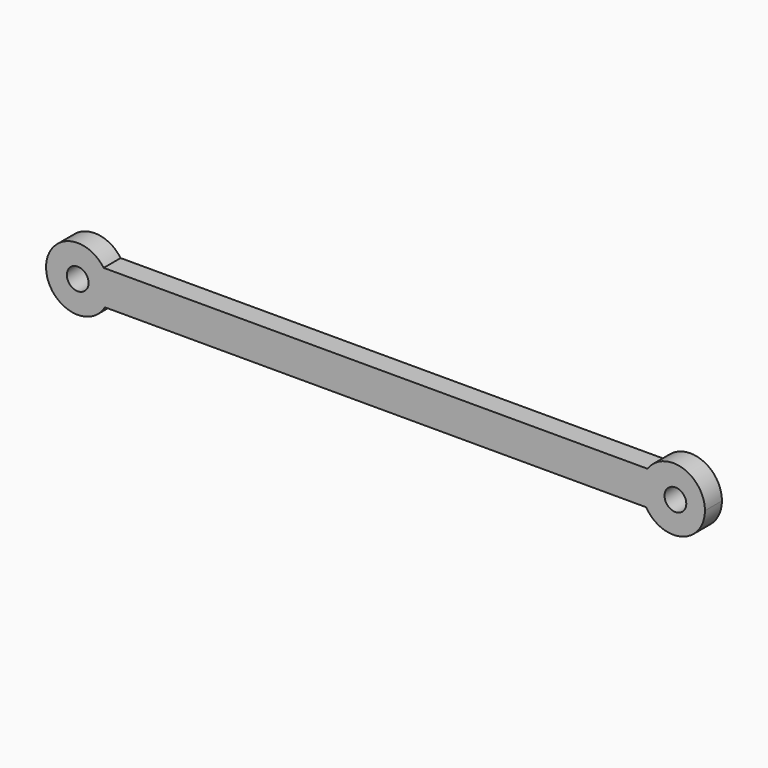
from build123d import *

# Parameters (mm, degrees)
F1_DEPTH = 3.175
F3_D     = 3.2512


with BuildPart() as f1:
    # F0 (on Front) → F1 (new body)
    with BuildSketch(Plane.XZ):
        with BuildLine():
            ThreePointArc((4.073034, -2.413141), (4.565934, -1.251041), (4.734222, 0))
            ThreePointArc((4.734222, 0), (4.514878, 1.424338), (3.87717, 2.716692))
            ThreePointArc((3.87717, 2.716692), (-4.730775, -0.180628), (4.073034, -2.413141))
        make_face()
        with BuildLine():
            ThreePointArc((3.87717, 2.716692), (4.514878, 1.424338), (4.734222, 0))
            ThreePointArc((4.734222, 0), (4.565934, -1.251041), (4.073034, -2.413141))
            Line((4.073034, -2.413141), (84.995226, -2.413141))
            ThreePointArc((84.995226, -2.413141), (84.335839, 0.180791), (85.191691, 2.716692))
            Line((85.191691, 2.716692), (3.87717, 2.716692))
        make_face()
        with BuildLine():
            ThreePointArc((93.780427, 0), (90.481081, 4.504076), (85.191691, 2.716692))
            ThreePointArc((85.191691, 2.716692), (84.335839, 0.180791), (84.995226, -2.413141))
            ThreePointArc((84.995226, -2.413141), (90.307663, -4.555299), (93.780427, 0))
        make_face()
    extrude(amount=F1_DEPTH)

    # F3 (through all)
    with Locations(Plane(origin=(0, 0, 0), x_dir=(1, 0, 0), z_dir=(0, 1, 0))):
        with Locations((0, 0), (89.366406, 0)):
            Hole(F3_D / 2)


solid = f1.part
